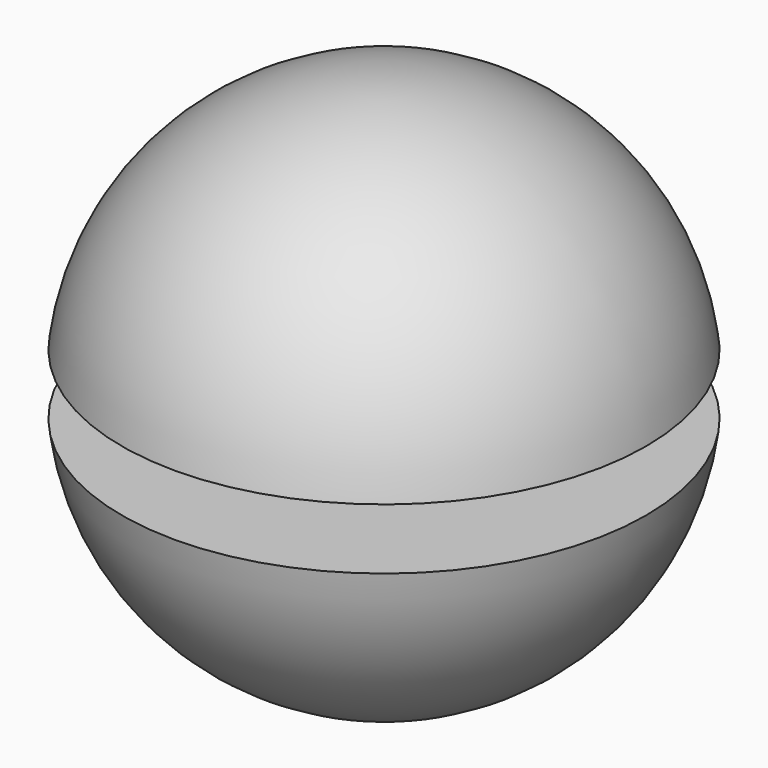
from build123d import *

# Parameters (mm, degrees)
F2_W = 32.767102
F2_H = 10.012176


with BuildPart() as f1:
    # F0 (on Front) → F1 (revolve)
    with BuildSketch(Plane.XZ):
        with BuildLine():
            Line((0, 43.407552), (0, -43.407552))
            ThreePointArc((0, -43.407552), (43.407552, 0), (0, 43.407552))
        make_face()
    revolve(axis=Axis((0, 0, 0), (0, 0, -1)))

    # F2 (on Front) → F3 (revolve, cut)
    with BuildSketch(Plane.XZ):
        with Locations((37.318084, 0)):
            Rectangle(F2_W, F2_H)
    revolve(axis=Axis((0, 0, 1.365298), (0, 0, -1)), mode=Mode.SUBTRACT)


solid = f1.part
